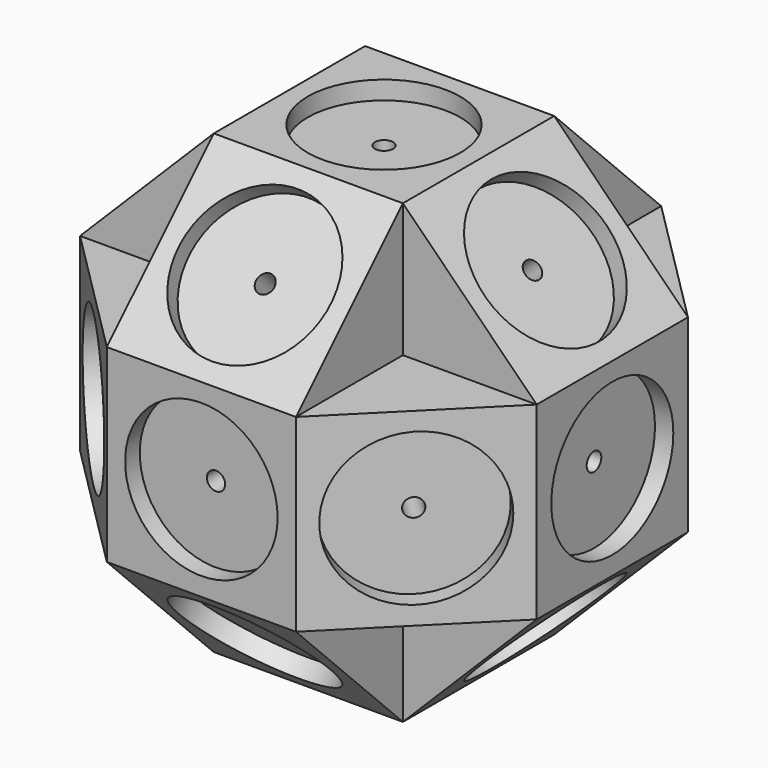
from build123d import *

# Parameters (mm, degrees)
F1_DEPTH      = 31
F1_DEPTH_BACK = 31
F2_R          = 25
F2_R_2        = 3
F3_DEPTH      = 6
F4_COUNT      = 8
F5_COUNT      = 2
F5_ANGLE      = 90
F6_COUNT      = 2
F6_ANGLE      = 90
F7_DEPTH      = 180.6822408671
F8_DEPTH      = 149.6822408671
F9_DEPTH      = 180.6822408671
F10_DEPTH     = 149.6822408671
F11_DEPTH     = 180.6822408671
F12_DEPTH     = 149.6822408671
F13_DEPTH     = 180.6822408671
F14_DEPTH     = 180.6822408671
F15_DEPTH     = 180.6822408671


with BuildPart() as f1:
    # F0 (on Front) → F1 (new body, two sides)
    with BuildSketch(Plane.XZ) as f1_sk:
        Polygon((74.8406204336, 31), (0, 31), (0, 0), (0, -31), (74.8406204336, -31), (74.8406204336, 0), align=None)
    extrude(amount=F1_DEPTH)
    extrude(f1_sk.sketch, amount=-F1_DEPTH_BACK)

    # F2 (on face) → F3 (cut)
    with BuildSketch(Plane.YZ.offset(74.8406204336)):
        Circle(F2_R)
        Circle(F2_R_2, mode=Mode.SUBTRACT)
    extrude(amount=-F3_DEPTH, mode=Mode.SUBTRACT)

    # F4: F1 ×8 about axis
    f4_axis = Axis((0, 0, 15.5), (0, 0, 1))


with BuildPart() as f1_1:
    add(f1.part)
    for i in range(1, F4_COUNT):
        add(f1.part.rotate(f4_axis, i * 360 / F4_COUNT))

    # F5: F1 ×2 about axis
    f5_axis = Axis((15.5, 0, 0), (1, 0, 0))


with BuildPart() as f1_2:
    add(f1_1.part)
    for i in range(1, F5_COUNT):
        add(f1_1.part.rotate(f5_axis, i * F5_ANGLE / (F5_COUNT - 1)))

    # F6: F1 ×2 about axis
    f6_axis = Axis((0, 0, 15.5), (0, 0, 1))


with BuildPart() as f1_3:
    add(f1_2.part)
    for i in range(1, F6_COUNT):
        add(f1_2.part.rotate(f6_axis, i * F6_ANGLE / (F6_COUNT - 1)))

    # F7 (cut, through all): a face of the model
    f7_faces = [f1_3.faces().sort_by_distance(p)[0] for p in [
        (-52.9203102168, -52.9203102168, 0),
    ]]
    extrude(f7_faces, amount=-F7_DEPTH, mode=Mode.SUBTRACT)

    # F8 (cut, through all): a face of the model
    f8_faces = [f1_3.faces().sort_by_distance(p)[0] for p in [
        (0, 74.8406204336, 0),
    ]]
    extrude(f8_faces, amount=-F8_DEPTH, mode=Mode.SUBTRACT)

    # F9 (cut, through all): a face of the model
    f9_faces = [f1_3.faces().sort_by_distance(p)[0] for p in [
        (-52.9203102168, 52.9203102168, 0),
    ]]
    extrude(f9_faces, amount=-F9_DEPTH, mode=Mode.SUBTRACT)

    # F10 (cut, through all): a face of the model
    f10_faces = [f1_3.faces().sort_by_distance(p)[0] for p in [
        (-74.8406204336, 0, 0),
    ]]
    extrude(f10_faces, amount=-F10_DEPTH, mode=Mode.SUBTRACT)

    # F11 (cut, through all): a face of the model
    f11_faces = [f1_3.faces().sort_by_distance(p)[0] for p in [
        (-52.9203102168, 0, -52.9203102168),
    ]]
    extrude(f11_faces, amount=-F11_DEPTH, mode=Mode.SUBTRACT)

    # F12 (cut, through all): a face of the model
    f12_faces = [f1_3.faces().sort_by_distance(p)[0] for p in [
        (0, 0, -74.8406204336),
    ]]
    extrude(f12_faces, amount=-F12_DEPTH, mode=Mode.SUBTRACT)

    # F13 (cut, through all): a face of the model
    f13_faces = [f1_3.faces().sort_by_distance(p)[0] for p in [
        (52.9203102168, 0, -52.9203102168),
    ]]
    extrude(f13_faces, amount=-F13_DEPTH, mode=Mode.SUBTRACT)

    # F14 (cut, through all): a face of the model
    f14_faces = [f1_3.faces().sort_by_distance(p)[0] for p in [
        (0, 52.9203102168, -52.9203102168),
    ]]
    extrude(f14_faces, amount=-F14_DEPTH, mode=Mode.SUBTRACT)

    # F15 (cut, through all): a face of the model
    f15_faces = [f1_3.faces().sort_by_distance(p)[0] for p in [
        (0, 52.9203102168, 52.9203102168),
    ]]
    extrude(f15_faces, amount=-F15_DEPTH, mode=Mode.SUBTRACT)


solid = f1_3.part
